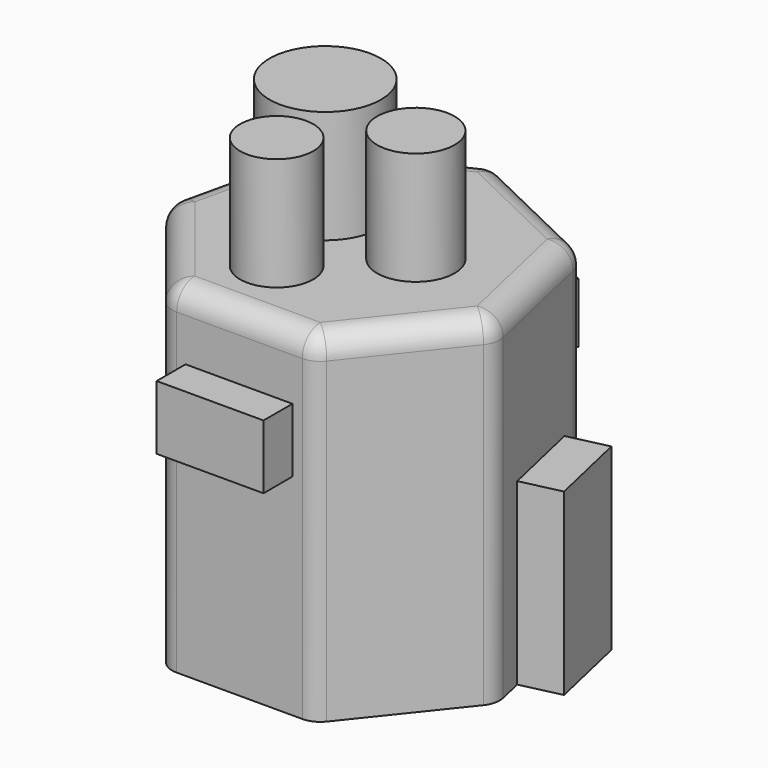
from build123d import *

# Parameters (mm, degrees)
F1_DEPTH  = 76.454
F2_R      = 5.08
F3_R      = 12.5413462947
F3_R_2    = 8.7181007295
F3_R_3    = 8.2285725293
F4_DEPTH  = 25.4
F5_W      = 19.0680492669
F5_H      = 40.280263871
F6_DEPTH  = 9.144
F7_W      = 23.966927348
F7_H      = 13.4842246771
F8_DEPTH  = 3.048
F9_R      = 2.3003367046
F10_DEPTH = 5.334
F11_W     = 24.0274826065
F11_H     = 14.4164860249
F12_DEPTH = 8.128


with BuildPart() as f1:
    # F0 (on Top) → F1 (new body)
    with BuildSketch(Plane.XY):
        Polygon((-16.5632220721, -34.393885029), (16.5632220721, -34.393885029), (37.217222168, -8.4945880948), (29.8458948783, 23.8013069328), (0, 38.1743323818), (-29.8458948783, 23.8013069328), (-37.217222168, -8.4945880948), align=None)
    extrude(amount=F1_DEPTH)

    # F2
    f2_edges = [f1.edges().sort_by_distance(p)[0] for p in [
        (33.531559, 7.653359, 76.454),
        (14.922947, 30.98782, 76.454),
        (-14.922947, 30.98782, 76.454),
        (-33.531559, 7.653359, 76.454),
        (-26.890222, -21.444237, 76.454),
        (0, -34.393885, 76.454),
        (26.890222, -21.444237, 76.454),
        (29.845895, 23.801307, 38.227),
        (0, 38.174332, 38.227),
        (37.217222, -8.494588, 38.227),
        (16.563222, -34.393885, 38.227),
        (-29.845895, 23.801307, 38.227),
        (-37.217222, -8.494588, 38.227),
        (-16.563222, -34.393885, 38.227),
    ]]
    fillet(f2_edges, radius=F2_R)

    # F3 (on face) → F4 (join)
    with BuildSketch(Plane.XY.offset(76.454)):
        with Locations((-12.5352265313, 5.3862300701)):
            Circle(F3_R)
        with Locations((12.1435020119, 0)):
            Circle(F3_R_2)
        with Locations((-5.2882982418, -17.333868891)):
            Circle(F3_R_3)
    extrude(amount=F4_DEPTH)

    # F5 (on face) → F6 (join)
    with BuildSketch(Plane(origin=(33.5315585231, 7.653359419, 0), x_dir=(-0.222520934, 0.9749279122, 0), z_dir=(0.9749279122, 0.222520934, 0))):
        with Locations((1.0750833899, 20.1401319355)):
            Rectangle(F5_W, F5_H)
    extrude(amount=F6_DEPTH)

    # F7 (on face) → F8 (join)
    with BuildSketch(Plane(origin=(14.9229474392, 30.9878196573, 0), x_dir=(-0.9009688679, 0.4338837391, 0), z_dir=(0.4338837391, 0.9009688679, 0))):
        with Locations((2.1333593346, 58.0553635955)):
            Rectangle(F7_W, F7_H)
    extrude(amount=F8_DEPTH)

    # F9 (on face) → F10 (join)
    with BuildSketch(Plane(origin=(42.4462993521, 9.6880908391, 0), x_dir=(-0.222520934, 0.9749279122, 0), z_dir=(0.9749279122, 0.222520934, 0))):
        with Locations((3.9111254737, 19.3487424403)):
            Circle(F9_R)
    extrude(amount=-F10_DEPTH)

    # F11 (on face) → F12 (join)
    with BuildSketch(Plane.XZ.offset(34.393885029)):
        with Locations((-0.1144171692, 54.4746331871)):
            Rectangle(F11_W, F11_H)
    extrude(amount=F12_DEPTH)


solid = f1.part
